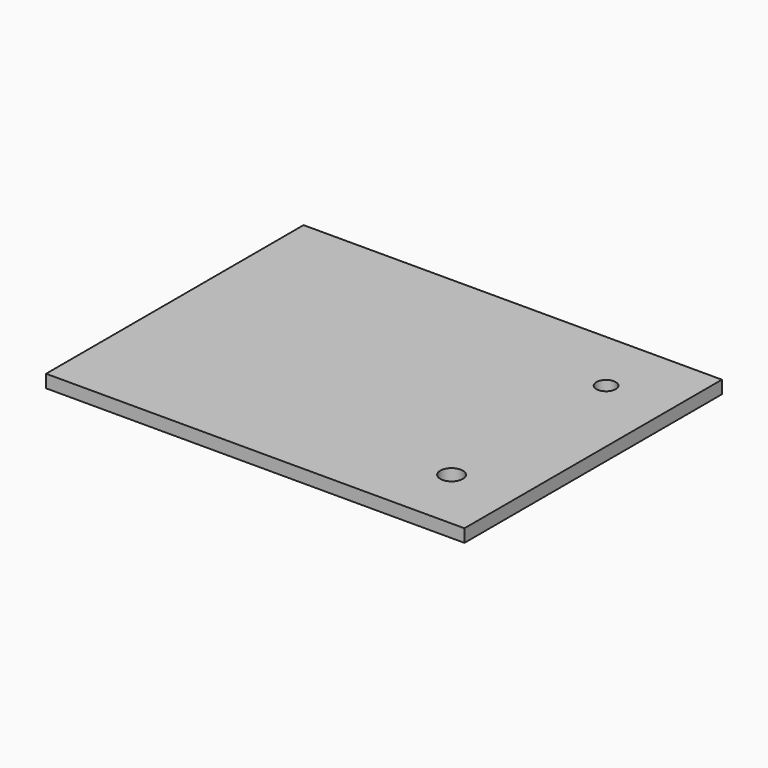
from build123d import *

# Parameters (mm, degrees)
SKETCH011_W   = 130
SKETCH011_H   = 100
PAD005_DEPTH  = 4
SKETCH013_R   = 3.5
HOLE004_DEPTH = 4.001
SKETCH014_R   = 3
HOLE005_DEPTH = 4.001


with BuildPart() as part:
    # Sketch011 → Pad005 (new body)
    with BuildSketch(Plane.XY.offset(76)):
        with Locations((65, -50)):
            Rectangle(SKETCH011_W, SKETCH011_H)
    extrude(amount=PAD005_DEPTH)

    # Sketch013 (on Face6 of Pad005) → Hole004 (cut, through all)
    with BuildSketch(Plane.XY.offset(80)):
        with Locations((110, -80)):
            Circle(SKETCH013_R)
    extrude(amount=-HOLE004_DEPTH, mode=Mode.SUBTRACT)

    # Sketch014 (on Face5 of Hole004) → Hole005 (cut, through all)
    with BuildSketch(Plane.XY.offset(80)):
        with Locations((110, -20)):
            Circle(SKETCH014_R)
    extrude(amount=-HOLE005_DEPTH, mode=Mode.SUBTRACT)


solid = part.part
